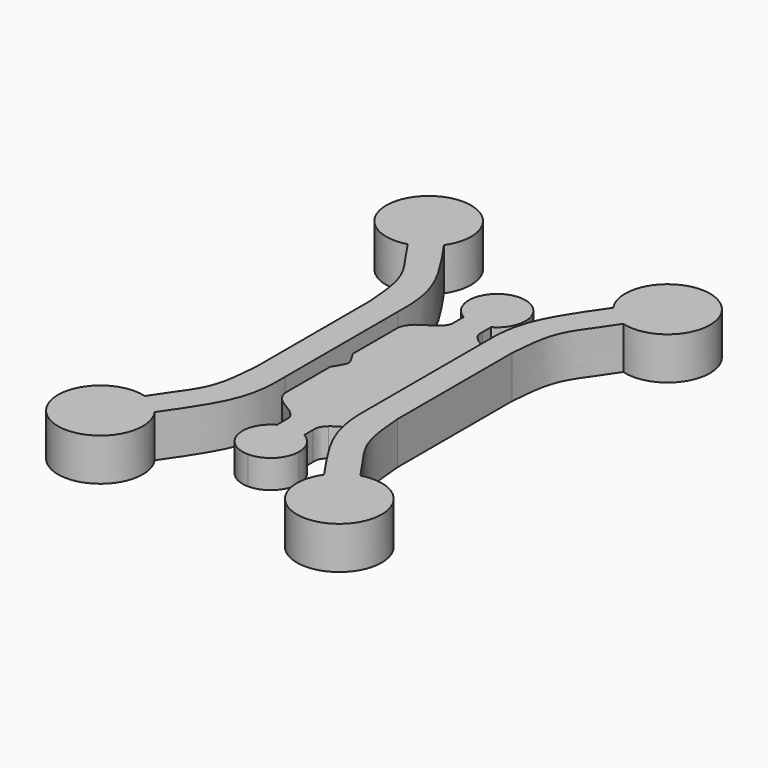
from build123d import *

# Parameters (mm, degrees)
F1_DEPTH = 1.5
F2_DEPTH = 1.5
F3_DEPTH = 1


with BuildPart() as f1:
    # F0 (on Top) → F1 (new body)
    with BuildSketch(Plane.XY):
        with BuildLine():
            add(Edge.make_bspline(
                [(-30.0496753657, -1.6366143987), (-30.0447041216, -1.7843464579), (-30.0354722057, -2.1747955176), (-30.1677635937, -3.5729716552), (-31.0591334265, -4.8206491721), (-31.5437565653, -5.5257683036)],
                knots=[0, 0, 0, 0, 0.2067765284, 0.5424050749, 1, 1, 1, 1], degree=3))
            Line((-30.0496753657, -1.6366143987), (-30.0496753657, 0.3633856013))
            Line((-30.0496753657, 0.3633856013), (-30.0496753657, 0.8633856013))
            Line((-30.0496753657, 0.8633856013), (-30.0496753657, 1.3633856013))
            Line((-30.0496753657, 1.3633856013), (-30.0496753657, 3.3633856013))
            add(Edge.make_bspline(
                [(-30.0496753657, 3.3633856013), (-30.0447041216, 3.5111176605), (-30.0354722057, 3.9015667201), (-30.1677635937, 5.2997428578), (-31.0591334265, 6.5474203747), (-31.5437565653, 7.2525395061)],
                knots=[0, 0, 0, 0, 0.2067765284, 0.5424050749, 1, 1, 1, 1], degree=3))
            ThreePointArc((-31.5437565653, 7.2525395061), (-33.6418347537, 9.3359584926), (-32.358351935, 6.672269582))
            add(Edge.make_bspline(
                [(-31.0496753657, 3.3913564036), (-31.0943634617, 3.9612452912), (-31.1769454956, 5.0019170089), (-31.8575168826, 5.9280431025), (-32.2003766787, 6.4320003208), (-32.358351935, 6.672269582)],
                knots=[0, 0, 0, 0, 0.3895106376, 0.7119480371, 1, 1, 1, 1], degree=3))
            Line((-31.0496753657, 3.3913564036), (-31.0496753657, 0.8633856013))
            Line((-31.0496753657, 0.8633856013), (-31.0496753657, -1.6645852011))
            add(Edge.make_bspline(
                [(-31.0496753657, -1.6645852011), (-31.0943634617, -2.2344740887), (-31.1769454956, -3.2751458064), (-31.8575168826, -4.2012719), (-32.2003766787, -4.7052291183), (-32.358351935, -4.9454983795)],
                knots=[0, 0, 0, 0, 0.3895106376, 0.7119480371, 1, 1, 1, 1], degree=3))
            ThreePointArc((-32.358351935, -4.9454983795), (-33.6418347537, -7.60918729), (-31.5437565653, -5.5257683036))
        make_face()
    extrude(amount=F1_DEPTH)


with BuildPart() as f2:
    # F0 (on Top) → F2 (new body)
    with BuildSketch(Plane.XY):
        with BuildLine():
            Line((-27.0496753657, 1.3633856013), (-27.0496753657, 0.8633856013))
            Line((-27.0496753657, 0.8633856013), (-27.0496753657, 0.3633856013))
            Line((-27.0496753657, 0.3633856013), (-27.0496753657, -1.6366143987))
            add(Edge.make_bspline(
                [(-27.0496753657, -1.6366143987), (-27.0546466099, -1.7843464579), (-27.0638785258, -2.1747955176), (-26.9315871377, -3.5729716552), (-26.040217305, -4.8206491721), (-25.5555941662, -5.5257683036)],
                knots=[0, 0, 0, 0, 0.2067765284, 0.5424050749, 1, 1, 1, 1], degree=3))
            ThreePointArc((-25.5555941662, -5.5257683036), (-23.4575159777, -7.60918729), (-24.7409987965, -4.9454983795))
            add(Edge.make_bspline(
                [(-26.0496753657, -1.6645852011), (-26.0049872698, -2.2344740887), (-25.9224052359, -3.2751458064), (-25.2418338489, -4.2012719), (-24.8989740528, -4.7052291183), (-24.7409987965, -4.9454983795)],
                knots=[0, 0, 0, 0, 0.3895106376, 0.7119480371, 1, 1, 1, 1], degree=3))
            Line((-26.0496753657, -1.6645852011), (-26.0496753657, 0.8633856013))
            Line((-26.0496753657, 0.8633856013), (-26.0496753657, 3.3913564036))
            add(Edge.make_bspline(
                [(-26.0496753657, 3.3913564036), (-26.0049872698, 3.9612452912), (-25.9224052359, 5.0019170089), (-25.2418338489, 5.9280431025), (-24.8989740528, 6.4320003208), (-24.7409987965, 6.672269582)],
                knots=[0, 0, 0, 0, 0.3895106376, 0.7119480371, 1, 1, 1, 1], degree=3))
            ThreePointArc((-24.7409987965, 6.672269582), (-23.4575159777, 9.3359584926), (-25.5555941662, 7.2525395061))
            add(Edge.make_bspline(
                [(-27.0496753657, 3.3633856013), (-27.0546466099, 3.5111176605), (-27.0638785258, 3.9015667201), (-26.9315871377, 5.2997428578), (-26.040217305, 6.5474203747), (-25.5555941662, 7.2525395061)],
                knots=[0, 0, 0, 0, 0.2067765284, 0.5424050749, 1, 1, 1, 1], degree=3))
            Line((-27.0496753657, 3.3633856013), (-27.0496753657, 1.3633856013))
        make_face()
    extrude(amount=F2_DEPTH)


with BuildPart() as f3:
    # F0 (on Top) → F3 (new body)
    with BuildSketch(Plane.XY):
        with BuildLine():
            Line((-27.0496753657, -1.6366143987), (-27.0496753657, 0.3633856013))
            add(Edge.make_bspline(
                [(-27.2881601661, 0.7883856013), (-27.258692413, 0.7028713607), (-27.1541838894, 0.533128481), (-27.0496753657, 0.3633856013)],
                knots=[0.2829426223, 0.2829426223, 0.2829426223, 0.2829426223, 1, 1, 1, 1], degree=3))
            add(Edge.make_bspline(
                [(-27.2996753657, 0.8633856013), (-27.2997315847, 0.8427570708), (-27.2997878037, 0.8221285404), (-27.2881601661, 0.7883856013)],
                knots=[0, 0, 0, 0, 0.2829426223, 0.2829426223, 0.2829426223, 0.2829426223], degree=3))
            add(Edge.make_bspline(
                [(-27.2996753657, 0.8633856013), (-27.2997315847, 0.8840141317), (-27.2997878037, 0.9046426621), (-27.2881601661, 0.9383856013)],
                knots=[0, 0, 0, 0, 0.2829426223, 0.2829426223, 0.2829426223, 0.2829426223], degree=3))
            add(Edge.make_bspline(
                [(-27.2881601661, 0.9383856013), (-27.258692413, 1.0238998418), (-27.1541838894, 1.1936427216), (-27.0496753657, 1.3633856013)],
                knots=[0.2829426223, 0.2829426223, 0.2829426223, 0.2829426223, 1, 1, 1, 1], degree=3))
            Line((-27.0496753657, 1.3633856013), (-27.0496753657, 3.3633856013))
            add(Edge.make_bspline(
                [(-27.8689055473, 4.1666570684), (-27.8155701958, 4.1169842068), (-27.5858548192, 3.9655823837), (-27.2088354742, 3.7642275563), (-27.0612582834, 3.469689666), (-27.0496753657, 3.3633856013)],
                knots=[0, 0, 0, 0, 0.3042885587, 0.663393524, 1, 1, 1, 1], degree=3))
            add(Edge.make_bspline(
                [(-28.0655524475, 4.6133856013), (-28.0668851606, 4.542992142), (-28.0697081163, 4.3922834039), (-27.9751788737, 4.2713964572), (-27.8689055473, 4.1666570684)],
                knots=[0, 0, 0, 0, 0.4464717881, 1, 1, 1, 1], degree=3))
            Line((-28.0655524475, 4.6133856013), (-28.0655524475, 4.9883856013))
            ThreePointArc((-28.0655524475, 4.9883856013), (-28.5496753657, 4.8633856013), (-29.033798284, 4.9883856013))
            Line((-29.033798284, 4.9883856013), (-29.033798284, 4.6133856013))
            add(Edge.make_bspline(
                [(-29.033798284, 4.6133856013), (-29.0324655709, 4.542992142), (-29.0296426152, 4.3922834039), (-29.1241718577, 4.2713964572), (-29.2304451842, 4.1666570684)],
                knots=[0, 0, 0, 0, 0.4464717881, 1, 1, 1, 1], degree=3))
            add(Edge.make_bspline(
                [(-29.2304451842, 4.1666570684), (-29.2837805357, 4.1169842068), (-29.5134959123, 3.9655823837), (-29.8905152573, 3.7642275563), (-30.0380924481, 3.469689666), (-30.0496753657, 3.3633856013)],
                knots=[0, 0, 0, 0, 0.3042885587, 0.663393524, 1, 1, 1, 1], degree=3))
            Line((-30.0496753657, 3.3633856013), (-30.0496753657, 1.3633856013))
            add(Edge.make_bspline(
                [(-29.8111905654, 0.9383856013), (-29.8406583184, 1.0238998418), (-29.9451668421, 1.1936427216), (-30.0496753657, 1.3633856013)],
                knots=[0.2829426223, 0.2829426223, 0.2829426223, 0.2829426223, 1, 1, 1, 1], degree=3))
            add(Edge.make_bspline(
                [(-29.7996753657, 0.8633856013), (-29.7996191468, 0.8840141317), (-29.7995629278, 0.9046426621), (-29.8111905654, 0.9383856013)],
                knots=[0, 0, 0, 0, 0.2829426223, 0.2829426223, 0.2829426223, 0.2829426223], degree=3))
            add(Edge.make_bspline(
                [(-29.7996753657, 0.8633856013), (-29.7996191468, 0.8427570708), (-29.7995629278, 0.8221285404), (-29.8111905654, 0.7883856013)],
                knots=[0, 0, 0, 0, 0.2829426223, 0.2829426223, 0.2829426223, 0.2829426223], degree=3))
            add(Edge.make_bspline(
                [(-29.8111905654, 0.7883856013), (-29.8406583184, 0.7028713607), (-29.9451668421, 0.533128481), (-30.0496753657, 0.3633856013)],
                knots=[0.2829426223, 0.2829426223, 0.2829426223, 0.2829426223, 1, 1, 1, 1], degree=3))
            Line((-30.0496753657, 0.3633856013), (-30.0496753657, -1.6366143987))
            add(Edge.make_bspline(
                [(-29.2304451842, -2.4398858659), (-29.2837805357, -2.3902130043), (-29.5134959123, -2.2388111812), (-29.8905152573, -2.0374563537), (-30.0380924481, -1.7429184635), (-30.0496753657, -1.6366143987)],
                knots=[0, 0, 0, 0, 0.3042885587, 0.663393524, 1, 1, 1, 1], degree=3))
            add(Edge.make_bspline(
                [(-29.033798284, -2.8866143987), (-29.0324655709, -2.8162209395), (-29.0296426152, -2.6655122014), (-29.1241718577, -2.5446252546), (-29.2304451842, -2.4398858659)],
                knots=[0, 0, 0, 0, 0.4464717881, 1, 1, 1, 1], degree=3))
            Line((-29.033798284, -2.8866143987), (-29.033798284, -3.2616143987))
            ThreePointArc((-29.033798284, -3.2616143987), (-28.5496753657, -3.1366143987), (-28.0655524475, -3.2616143987))
            Line((-28.0655524475, -3.2616143987), (-28.0655524475, -2.8866143987))
            add(Edge.make_bspline(
                [(-28.0655524475, -2.8866143987), (-28.0668851606, -2.8162209395), (-28.0697081163, -2.6655122014), (-27.9751788737, -2.5446252546), (-27.8689055473, -2.4398858659)],
                knots=[0, 0, 0, 0, 0.4464717881, 1, 1, 1, 1], degree=3))
            add(Edge.make_bspline(
                [(-27.8689055473, -2.4398858659), (-27.8155701958, -2.3902130043), (-27.5858548192, -2.2388111812), (-27.2088354742, -2.0374563537), (-27.0612582834, -1.7429184635), (-27.0496753657, -1.6366143987)],
                knots=[0, 0, 0, 0, 0.3042885587, 0.663393524, 1, 1, 1, 1], degree=3))
        make_face()
        with BuildLine():
            ThreePointArc((-29.033798284, 4.9883856013), (-28.5496753657, 4.8633856013), (-28.0655524475, 4.9883856013))
            ThreePointArc((-28.0655524475, 4.9883856013), (-27.6882454736, 5.3555090997), (-27.5496753657, 5.8633856013))
            ThreePointArc((-27.5496753657, 5.8633856013), (-27.8425685845, 6.5704923824), (-28.5496753657, 6.8633856013))
            ThreePointArc((-28.5496753657, 6.8633856013), (-29.5179212023, 6.1133856013), (-29.033798284, 4.9883856013))
        make_face()
        with BuildLine():
            ThreePointArc((-27.5496753657, -4.1366143987), (-27.6882454736, -3.6287378972), (-28.0655524475, -3.2616143987))
            ThreePointArc((-28.0655524475, -3.2616143987), (-28.5496753657, -3.1366143987), (-29.033798284, -3.2616143987))
            ThreePointArc((-29.033798284, -3.2616143987), (-29.5179212023, -4.3866143987), (-28.5496753657, -5.1366143987))
            ThreePointArc((-28.5496753657, -5.1366143987), (-27.8425685845, -4.8437211799), (-27.5496753657, -4.1366143987))
        make_face()
    extrude(amount=F3_DEPTH)


solid = Compound([f1.part, f2.part, f3.part])
